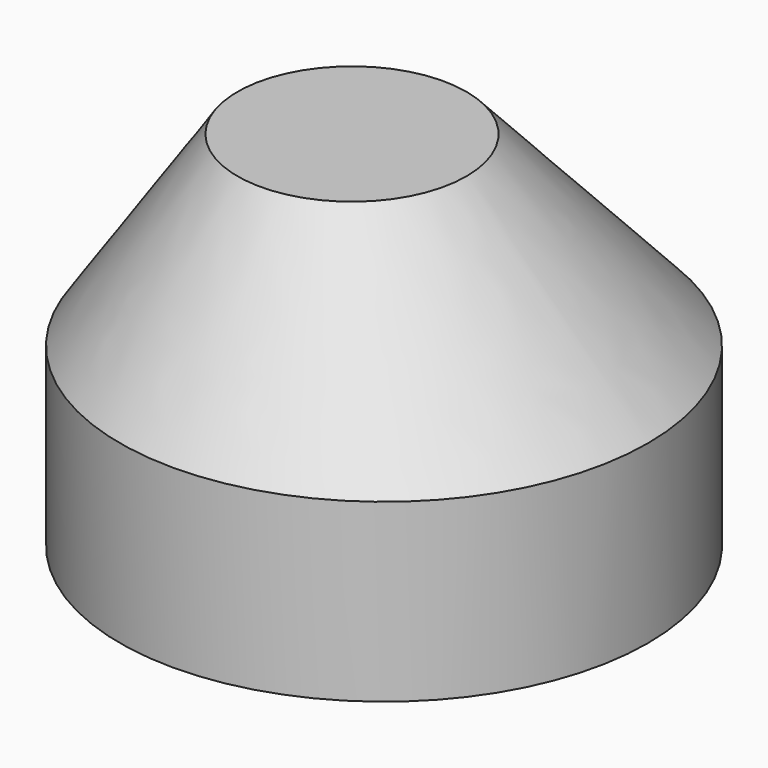
from build123d import *

# Parameters (mm, degrees)
F0_R      = 38.1
F2_DEPTH  = 25.4
F4_R      = 16.525153
F2_FACE_R = 38.1


with BuildPart() as f2:
    # F0 (on Top) → F2 (new body)
    with BuildSketch(Plane.XY):
        Circle(F0_R)
    extrude(amount=F2_DEPTH)


with BuildPart() as f5:
    # F4 (on offset) → F5 section 0
    with BuildSketch(Plane.XY.offset(50.8)):
        with Locations((-4.619132, 0)):
            Circle(F4_R)
    # F2_face (on face) → F5 section 1
    with BuildSketch(Plane.XY.offset(25.4)):
        Circle(F2_FACE_R)
    loft()


solid = Compound([f2.part, f5.part])
